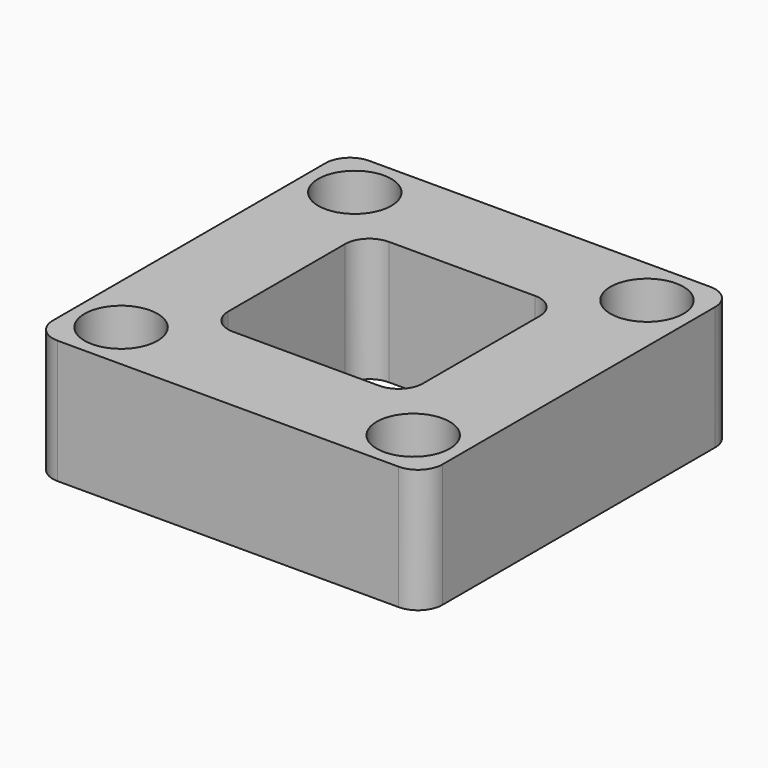
from build123d import *

# Parameters (mm, degrees)
F0_W     = 80
F0_H     = 80
F1_DEPTH = 25.4
F2_W     = 40
F2_H     = 40
F3_DEPTH = 25.4
F5_D     = 15
F6_R     = 5
F7_R     = 5


with BuildPart() as f1:
    # F0 (on Top) → F1 (new body)
    with BuildSketch(Plane.XY):
        Rectangle(F0_W, F0_H)
    extrude(amount=F1_DEPTH)

    # F2 (on face) → F3 (cut)
    with BuildSketch(Plane.XY.offset(25.4)):
        Rectangle(F2_W, F2_H)
    extrude(amount=-F3_DEPTH, mode=Mode.SUBTRACT)

    # F5 (through all)
    with Locations(Plane.XY.offset(25.4)):
        with Locations((-30, -30), (30, -30), (30, 30), (-30, 30)):
            Hole(F5_D / 2)

    # F6
    f6_edges = [f1.edges().sort_by_distance(p)[0] for p in [
        (40, -40, 12.7),
        (-40, -40, 12.7),
        (40, 40, 12.7),
        (-40, 40, 12.7),
    ]]
    fillet(f6_edges, radius=F6_R)

    # F7
    f7_edges = [f1.edges().sort_by_distance(p)[0] for p in [
        (-20, 20, 12.7),
        (-20, -20, 12.7),
        (20, 20, 12.7),
        (20, -20, 12.7),
    ]]
    fillet(f7_edges, radius=F7_R)


solid = f1.part
